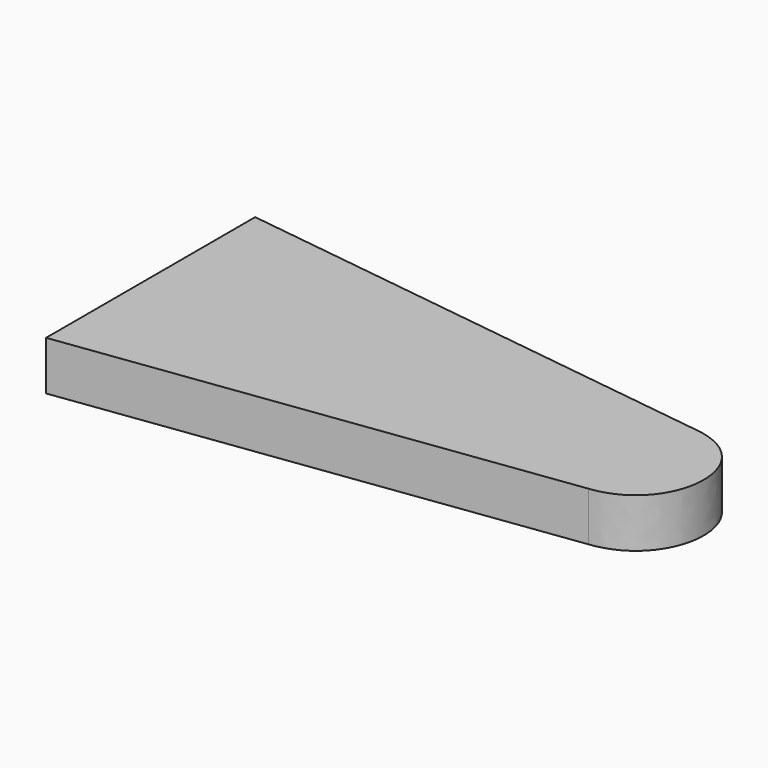
from build123d import *

# Parameters (mm, degrees)
F1_DEPTH = 19.05


with BuildPart() as f1:
    # F0 (on Top) → F1 (new body)
    with BuildSketch(Plane.XY):
        with BuildLine():
            Line((-107.95, 50.8), (-107.95, -50.8))
            Line((-107.95, -50.8), (82.55, -25.4))
            add(Edge.make_bspline(
                [(82.55, 25.4), (115.505569, 22.645541), (112.841383, -22.053493), (82.55, -25.4)],
                knots=[0, 0, 0, 0, 50.8, 50.8, 50.8, 50.8], degree=3))
            Line((82.55, 25.4), (-107.95, 50.8))
        make_face()
    extrude(amount=F1_DEPTH)


solid = f1.part
